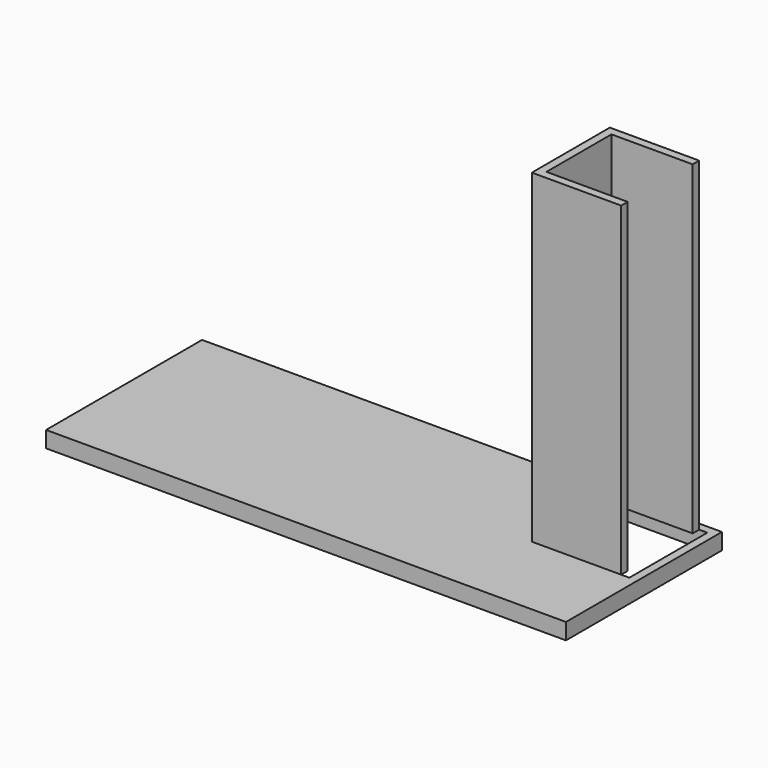
from build123d import *

# Parameters (mm, degrees)
F0_W     = 406.4
F0_H     = 152.4
F1_DEPTH = 12.7
F2_DEPTH = 254


with BuildPart() as f1:
    # F0 (on Top) → F1 (new body)
    with BuildSketch(Plane.XY):
        Rectangle(F0_W, F0_H)
        Polygon((196.85, -6.35), (190.5, -6.35), (120.65, -6.35), (120.65, 69.85), (190.5, 69.85), (196.85, 69.85), align=None, mode=Mode.SUBTRACT)
    extrude(amount=-F1_DEPTH)


with BuildPart() as f2:
    # F0 (on Top) → F2 (new body)
    with BuildSketch(Plane.XY):
        Polygon((190.5, -6.35), (190.5, 0), (127, 0), (127, 63.5), (190.5, 63.5), (190.5, 69.85), (120.65, 69.85), (120.65, -6.35), align=None)
    extrude(amount=F2_DEPTH)


solid = Compound([f1.part, f2.part])
